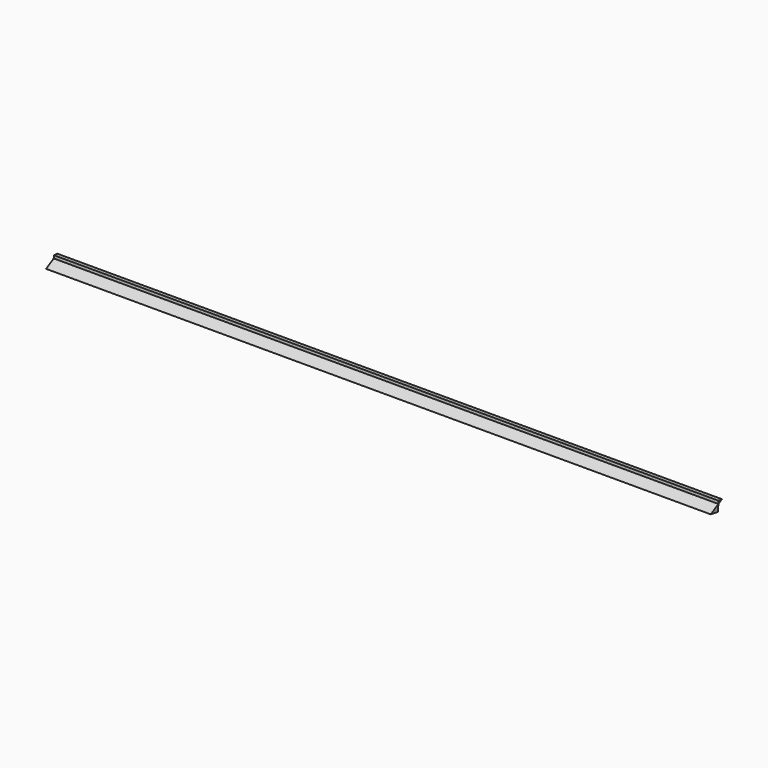
from build123d import *

# Parameters (mm, degrees)
F1_DEPTH = 2489.2


with BuildPart() as f1:
    # F0 (on Right) → F1 (new body)
    with BuildSketch(Plane.YZ):
        Polygon((-476.611405, -471.762287), (-474.171373, -446.296892), (-510.006607, -466.041893), align=None)
        Polygon((-457.611449, -437.172472), (-473.197371, -436.131716), (-474.171373, -446.296892), align=None)
    extrude(amount=F1_DEPTH)


solid = f1.part
